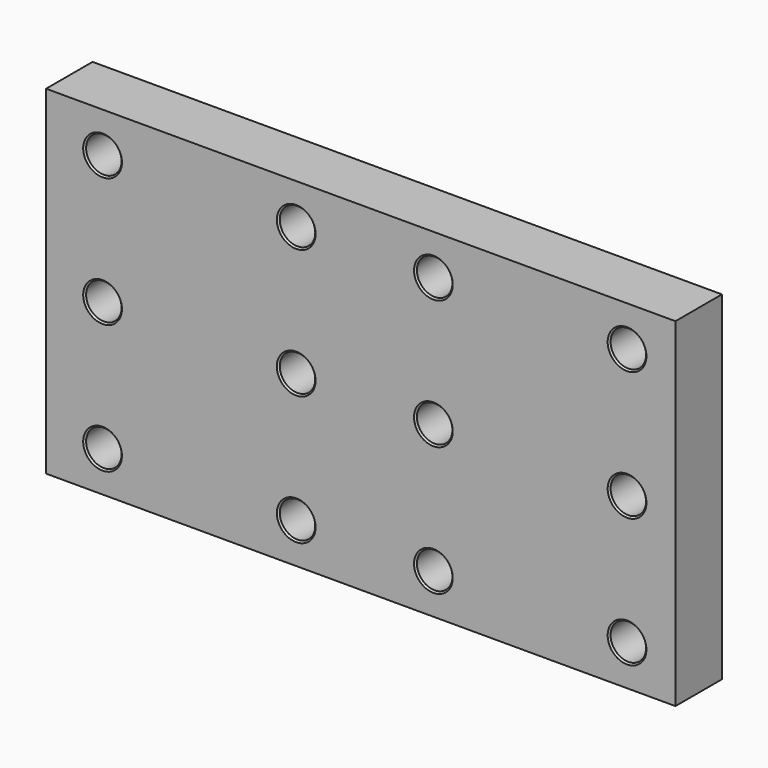
from build123d import *

# Parameters (mm, degrees)
F0_W     = 195
F0_H     = 105
F0_R     = 5.5
F1_DEPTH = 18
F2_SIZE  = 0.5


with BuildPart() as f1:
    # F0 (on Front) → F1 (new body)
    with BuildSketch(Plane.XZ):
        Rectangle(F0_W, F0_H)
        with Locations((-80, -40)):
            Circle(F0_R, mode=Mode.SUBTRACT)
        with Locations((-20, -40)):
            Circle(F0_R, mode=Mode.SUBTRACT)
        with Locations((22.5, -40)):
            Circle(F0_R, mode=Mode.SUBTRACT)
        with Locations((82.5, -40)):
            Circle(F0_R, mode=Mode.SUBTRACT)
        with Locations((-80, 0)):
            Circle(F0_R, mode=Mode.SUBTRACT)
        with Locations((-20, 0)):
            Circle(F0_R, mode=Mode.SUBTRACT)
        with Locations((-80, 40)):
            Circle(F0_R, mode=Mode.SUBTRACT)
        with Locations((-20, 40)):
            Circle(F0_R, mode=Mode.SUBTRACT)
        with Locations((22.5, 0)):
            Circle(F0_R, mode=Mode.SUBTRACT)
        with Locations((82.5, 0)):
            Circle(F0_R, mode=Mode.SUBTRACT)
        with Locations((22.5, 40)):
            Circle(F0_R, mode=Mode.SUBTRACT)
        with Locations((82.5, 40)):
            Circle(F0_R, mode=Mode.SUBTRACT)
    extrude(amount=F1_DEPTH)

    # F2
    f2_edges = [f1.edges().sort_by_distance(p)[0] for p in [
        (-74.5, -9, 40),
        (-85.5, 0, 40),
        (-85.5, -18, 40),
        (-74.5, -9, 0),
        (-85.5, 0, 0),
        (-85.5, -18, 0),
        (-74.5, -9, -40),
        (-85.5, 0, -40),
        (-85.5, -18, -40),
        (-14.5, -9, 40),
        (-25.5, 0, 40),
        (-25.5, -18, 40),
        (-14.5, -9, 0),
        (-25.5, 0, 0),
        (-25.5, -18, 0),
        (-14.5, -9, -40),
        (-25.5, 0, -40),
        (-25.5, -18, -40),
        (28, -9, 40),
        (17, 0, 40),
        (17, -18, 40),
        (28, -9, 0),
        (17, 0, 0),
        (17, -18, 0),
        (28, -9, -40),
        (17, 0, -40),
        (17, -18, -40),
        (88, -9, 40),
        (77, 0, 40),
        (77, -18, 40),
        (88, -9, 0),
        (77, 0, 0),
        (77, -18, 0),
        (88, -9, -40),
        (77, 0, -40),
        (77, -18, -40),
    ]]
    chamfer(f2_edges, length=F2_SIZE)


solid = f1.part
